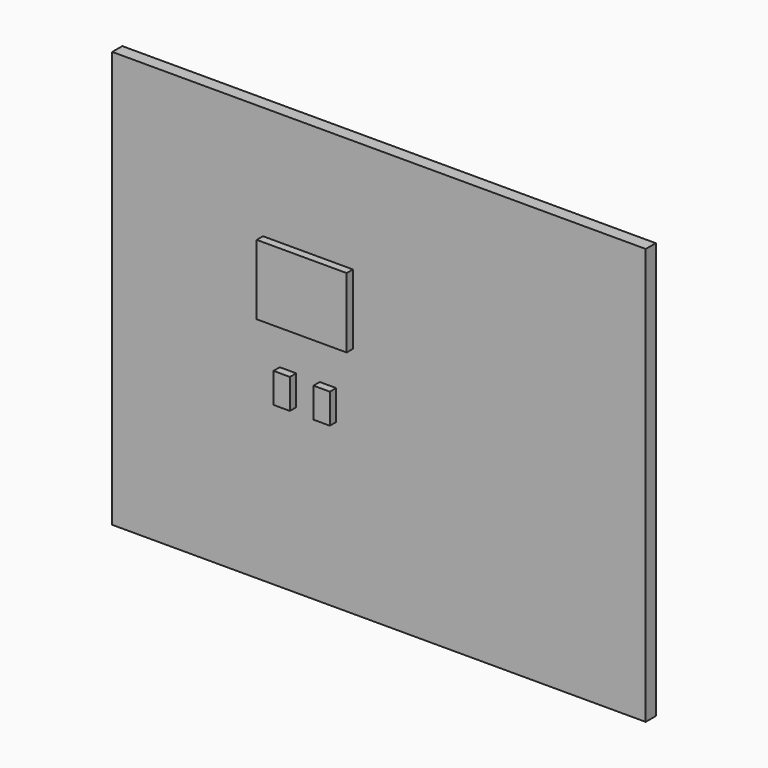
from build123d import *

# Parameters (mm, degrees)
F0_W     = 67.830887
F0_H     = 52.941181
F1_DEPTH = 1.6
F2_W     = 2.08
F2_H     = 3.81
F2_W_2   = 11.43
F2_H_2   = 8.89
F3_DEPTH = 1


with BuildPart() as f1:
    # F0 (on Front) → F1 (new body)
    with BuildSketch(Plane.XZ):
        with Locations((9.027579, -2.911958)):
            Rectangle(F0_W, F0_H)
    extrude(amount=-F1_DEPTH)


with BuildPart() as f3:
    # F2 (on Front) → F3 (new body)
    with BuildSketch(Plane.XZ):
        with Locations((-2.54, -6.715)):
            Rectangle(F2_W, F2_H)
        with Locations((0, 4.715)):
            Rectangle(F2_W_2, F2_H_2)
        with Locations((2.54, -6.715)):
            Rectangle(F2_W, F2_H)
    extrude(amount=F3_DEPTH)


solid = Compound([f1.part, f3.part])
